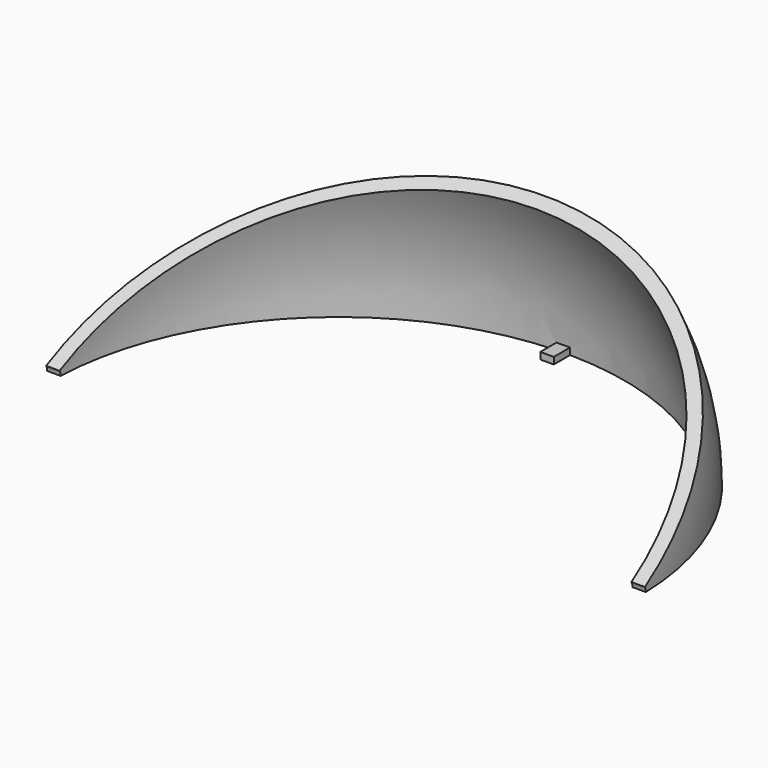
from build123d import *

# Parameters (mm, degrees)
F1_ANGLE      = 30
F2_R          = 3.81
F3_DEPTH      = 113.031
F3_DEPTH_BACK = 113.031
F4_W          = 5.08
F4_H          = 20.3234071666
F5_DEPTH      = 2.54


with BuildPart() as f1:
    # F0 (on Top) → F1 (revolve)
    with BuildSketch(Plane.XY):
        with BuildLine():
            Line((-113.03, 0), (-107.95, 0))
            ThreePointArc((-107.95, 0), (0, 107.95), (107.95, 0))
            Line((107.95, 0), (113.03, 0))
            ThreePointArc((113.03, 0), (0, 113.03), (-113.03, 0))
        make_face()
    revolve(axis=Axis((-53.975, 0, 0), (1, 0, 0)), revolution_arc=F1_ANGLE)

    # F2 (on Right) → F3 (cut, two sides)
    with BuildSketch(Plane.YZ) as f3_sk:
        Circle(F2_R)
    extrude(amount=-F3_DEPTH, mode=Mode.SUBTRACT)
    extrude(f3_sk.sketch, amount=F3_DEPTH_BACK, mode=Mode.SUBTRACT)

    # F4 (on Top) → F5 (join)
    with BuildSketch(Plane.XY):
        with Locations((-1.5036120401, 110.4159437969)):
            Rectangle(F4_W, F4_H)
    extrude(amount=F5_DEPTH)


solid = f1.part
